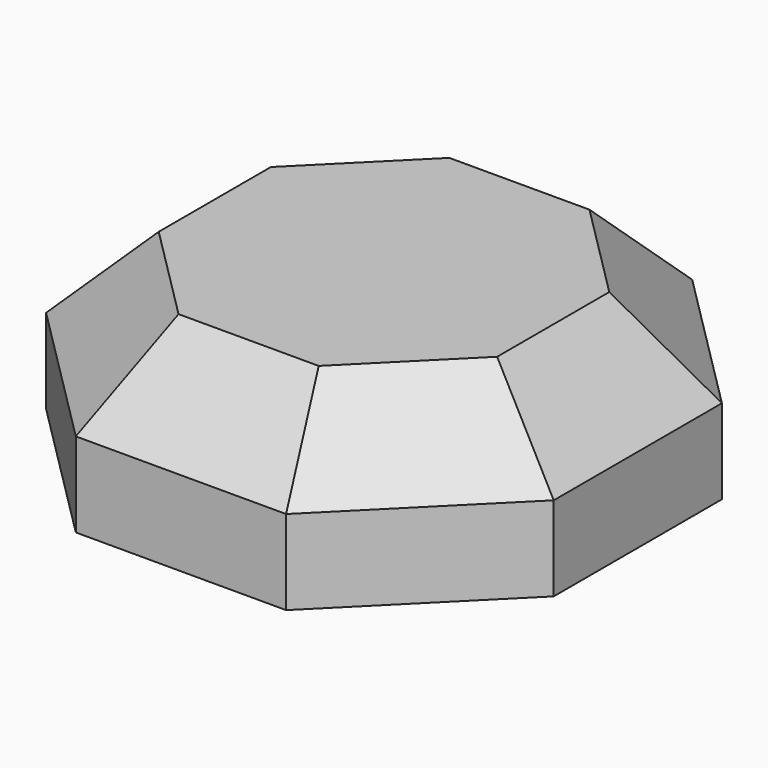
from build123d import *

# Parameters (mm, degrees)
F1_DEPTH = 0.5
F2_SIZE  = 0.5


with BuildPart() as f1:
    # F0 (on Top) → F1 (new body, symmetric)
    with BuildSketch(Plane.XY):
        Polygon((0.62132, -1.5), (1.5, -0.62132), (1.5, 0.62132), (0.62132, 1.5), (-0.62132, 1.5), (-1.5, 0.62132), (-1.5, -0.62132), (-0.62132, -1.5), align=None)
    extrude(amount=F1_DEPTH, both=True)

    # F2
    f2_edges = [f1.edges().sort_by_distance(p)[0] for p in [
        (1.06066, -1.06066, 0.5),
        (1.5, 0, 0.5),
        (1.06066, 1.06066, 0.5),
        (0, 1.5, 0.5),
        (-1.06066, 1.06066, 0.5),
        (-1.5, 0, 0.5),
        (-1.06066, -1.06066, 0.5),
        (0, -1.5, 0.5),
    ]]
    chamfer(f2_edges, length=F2_SIZE)


solid = f1.part
